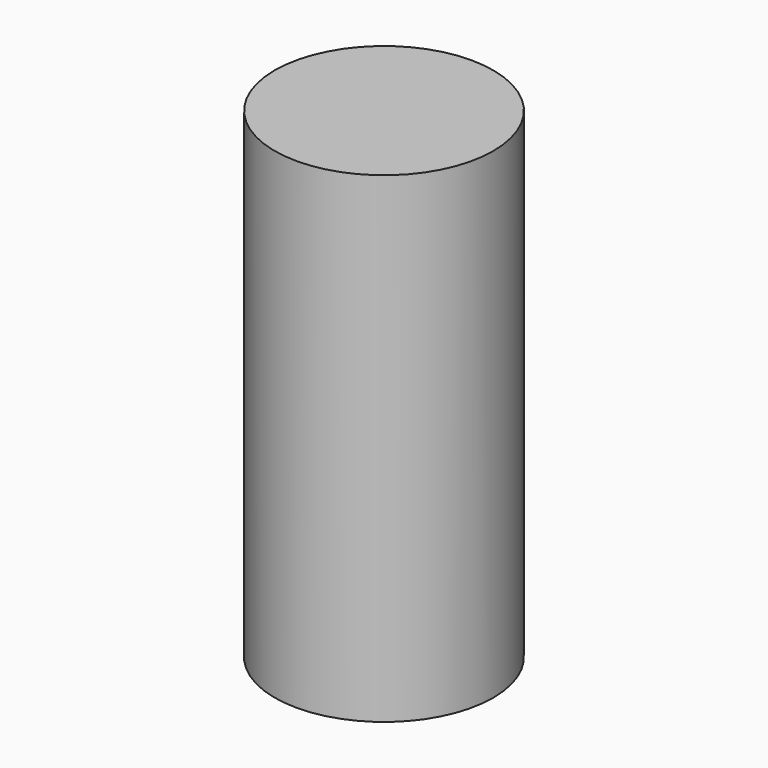
from build123d import *

# Parameters (mm, degrees)
F0_R     = 25.95185
F1_DEPTH = 114.295468
F2_DEPTH = 25.4


with BuildPart() as f1:
    # F0 (on Top) → F1 (new body)
    with BuildSketch(Plane.XY):
        with Locations((-10.941088, 46.946749)):
            Circle(F0_R)
    extrude(amount=F1_DEPTH)

    # F0 (on Top) → F2 (join)
    with BuildSketch(Plane.XY):
        with Locations((-10.941088, 46.946749)):
            Circle(F0_R)
    extrude(amount=F2_DEPTH)


solid = f1.part
